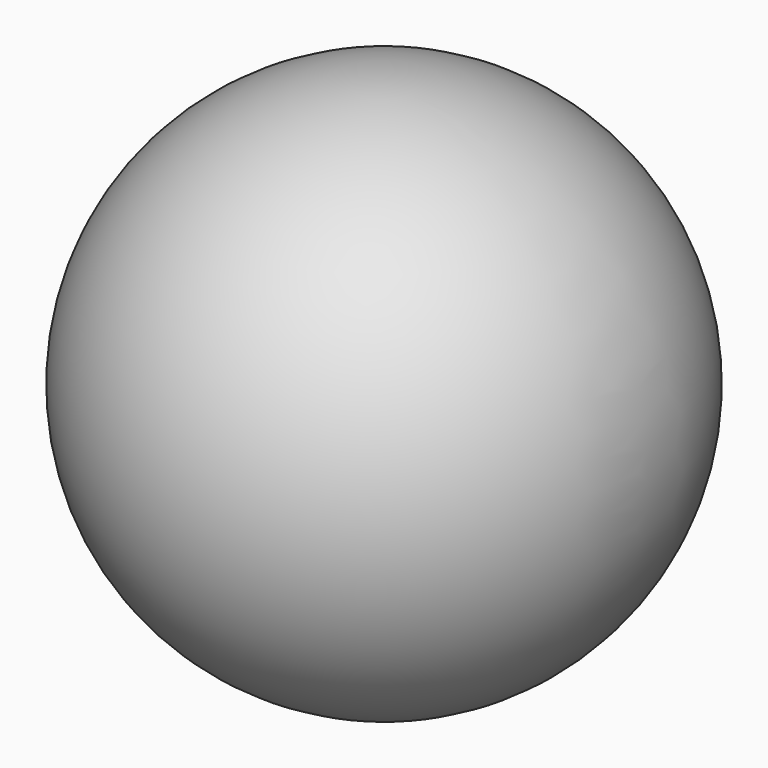
from build123d import *


with BuildPart() as f1:
    # F0 (on Front) → F1 (revolve)
    with BuildSketch(Plane.XZ):
        with BuildLine():
            Line((0, -31.282105), (0, -53.34))
            ThreePointArc((0, -53.34), (53.34, 0), (0, 53.34))
            Line((0, 53.34), (0, 30.981317))
            Line((0, 30.981317), (0, -31.282105))
        make_face()
    revolve(axis=Axis((0, 0, 0), (0, 0, -1)))


solid = f1.part
